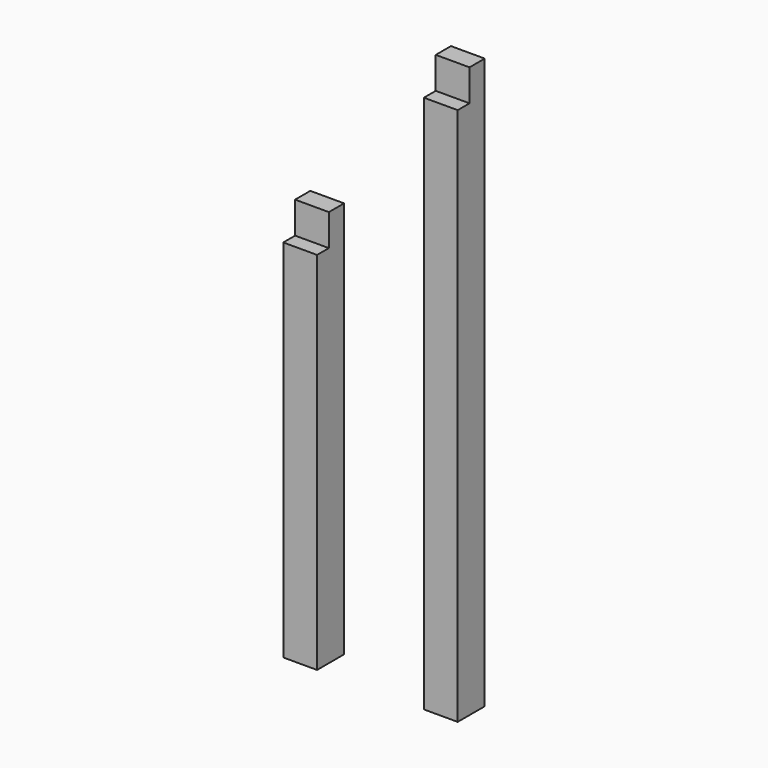
from build123d import *

# Parameters (mm, degrees)
F0_W     = 160
F0_H     = 160
F1_DEPTH = 1880
F2_W     = 160
F2_H     = 150
F3_DEPTH = 70
F4_W     = 160
F4_H     = 160
F5_DEPTH = 2700
F6_W     = 160
F6_H     = 150
F7_DEPTH = 70


with BuildPart() as f1:
    # F0 (on Top) → F1 (new body)
    with BuildSketch(Plane.XY):
        Rectangle(F0_W, F0_H)
    extrude(amount=F1_DEPTH)

    # F2 (on face) → F3 (cut)
    with BuildSketch(Plane.XZ.offset(80)):
        with Locations((0, 1805)):
            Rectangle(F2_W, F2_H)
    extrude(amount=-F3_DEPTH, mode=Mode.SUBTRACT)


with BuildPart() as f5:
    # F4 (on face) → F5 (new body)
    with BuildSketch(Plane(origin=(0, 0, 0), x_dir=(1, 0, 0), z_dir=(0, 0, -1))):
        with Locations((665.933626, 0)):
            Rectangle(F4_W, F4_H)
    extrude(amount=-F5_DEPTH)

    # F6 (on face) → F7 (cut)
    with BuildSketch(Plane.XZ.offset(80)):
        with Locations((665.933626, 2625)):
            Rectangle(F6_W, F6_H)
    extrude(amount=-F7_DEPTH, mode=Mode.SUBTRACT)


solid = Compound([f1.part, f5.part])
